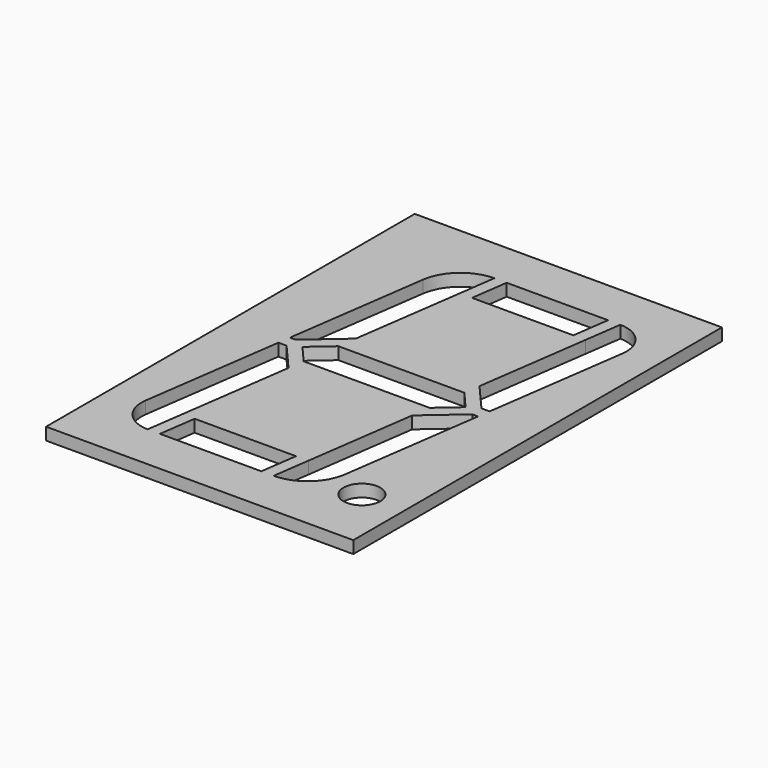
from build123d import *

# Parameters (mm, degrees)
PAD002_DEPTH    = 4
SKETCH_W        = 100
SKETCH_H        = 150
PAD_DEPTH       = 4
POCKET_DEPTH    = 5
SKETCH002_R     = 6
POCKET001_DEPTH = 5
PAD001_DEPTH    = 4
PAD003_DEPTH    = 4


with BuildPart() as pad002:
    # Sketch004 → Pad002 (new body)
    with BuildSketch(Plane.XY):
        Polygon((-28.9324500821, 15), (-27.2459600657, 27), (-23.2459600657, 27), (-24.9324500821, 15), align=None)
        Polygon((13.7540399343, 27), (12.0675499179, 15), (8.0675499179, 15), (9.7540399343, 27), align=None)
        Polygon((-13.7540399343, 123), (-12.0675499179, 135), (-8.0675499179, 135), (-9.7540399343, 123), align=None)
        Polygon((28.9324500821, 135), (27.2459600657, 123), (23.2459600657, 123), (24.9324500821, 135), align=None)
    extrude(amount=PAD002_DEPTH)


with BuildPart() as pocket001:
    # Sketch → Pad (new body)
    with BuildSketch(Plane.XY):
        with Locations((0, 75)):
            Rectangle(SKETCH_W, SKETCH_H)
    extrude(amount=PAD_DEPTH)

    # Sketch001 → Pocket (cut)
    with BuildSketch(Plane.XY.offset(4)):
        with BuildLine():
            Line((-39.2459600657, 27), (-25.7540399343, 123))
            ThreePointArc((-11.9496190476, 135), (-21.0951375679, 131.5806307393), (-25.7540399343, 123))
            Line((-11.9496190476, 135), (28.8145192119, 135))
            ThreePointArc((39.2459600657, 123), (36.764597172, 131.3769407401), (28.8145192119, 135))
            Line((39.2459600657, 123), (25.7540399343, 27))
            ThreePointArc((11.9496190476, 15), (21.0951375679, 18.4193692607), (25.7540399343, 27))
            Line((-28.8145192119, 15), (11.9496190476, 15))
            ThreePointArc((-39.2459600657, 27), (-36.764597172, 18.6230592599), (-28.8145192119, 15))
        make_face()
    extrude(amount=-POCKET_DEPTH, mode=Mode.SUBTRACT)

    # Sketch002 → Pocket001 (cut)
    with BuildSketch(Plane.XY.offset(4)):
        with Locations((36, 21)):
            Circle(SKETCH002_R)
    extrude(amount=-POCKET001_DEPTH, mode=Mode.SUBTRACT)


with BuildPart() as pad001:
    # Sketch003 → Pad001 (new body)
    with BuildSketch(Plane.XY):
        Polygon((-27.2459600657, 27), (13.7540399343, 27), (19.6567549918, 69), (-21.3432450082, 69), align=None)
        Polygon((-13.7540399343, 123), (27.2459600657, 123), (21.3432450082, 81), (-19.6567549918, 81), align=None)
    extrude(amount=PAD001_DEPTH)


with BuildPart() as fusion:
    # Sketch005 → Pad003 (new body)
    with BuildSketch(Plane.XY):
        Polygon((-21.3432450082, 69), (-26.5589654351, 75), (-19.6567549918, 81), (-18.8082148769, 87.0376766418), (-30.3552409675, 77), (-32.3368492008, 77), (-32.8990125396, 73), (-30.1204439329, 73), (-22.0808696766, 63.7515277681), align=None)
        Polygon((21.3432450082, 81), (26.5589654351, 75), (19.6567549918, 69), (18.8082148769, 62.9623233582), (30.3552409675, 73), (32.3368492008, 73), (32.8990125396, 77), (30.1204439329, 77), (22.0808696766, 86.2484722319), align=None)
    extrude(amount=PAD003_DEPTH)

    # Fusion: union Pad002, Pocket001, Pad001
    add(pad002.part)
    add(pocket001.part)
    add(pad001.part)


solid = fusion.part
